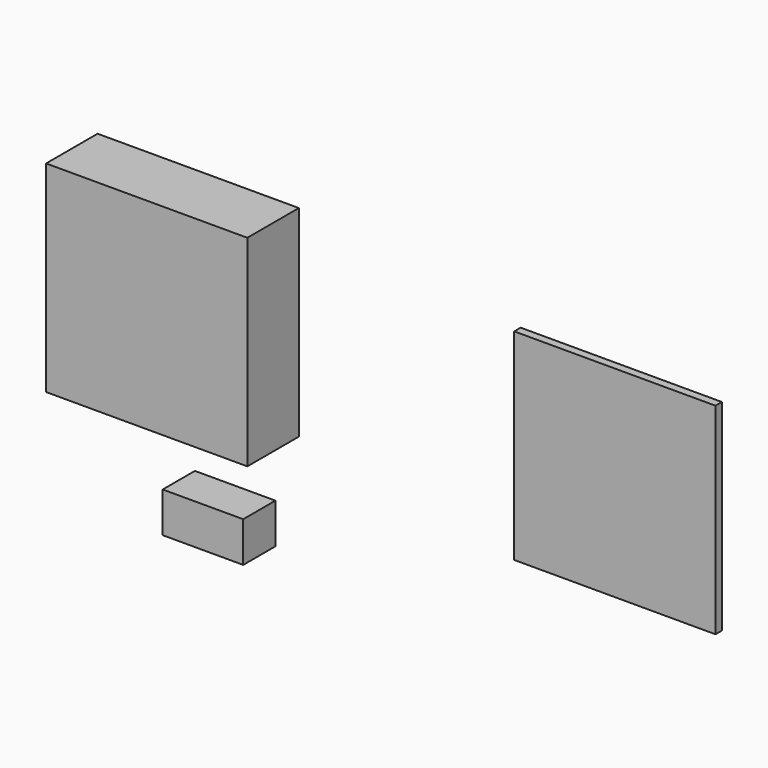
from build123d import *

# Parameters (mm, degrees)
F0_W     = 127
F0_H     = 127
F1_DEPTH = 40.64
F2_W     = 25.4
F2_H     = 25.4
F3_DEPTH = 50.8
F4_W     = 127
F4_H     = 127
F5_DEPTH = 5.08


with BuildPart() as f1:
    # F0 (on Front) → F1 (new body)
    with BuildSketch(Plane.XZ):
        with Locations((-92.340814, 71.640552)):
            Rectangle(F0_W, F0_H)
    extrude(amount=F1_DEPTH)


with BuildPart() as f3:
    # F2 (on Right) → F3 (new body)
    with BuildSketch(Plane.YZ):
        with Locations((-130.749674, 33.784234)):
            Rectangle(F2_W, F2_H)
    extrude(amount=F3_DEPTH)


with BuildPart() as f5:
    # F4 (on Front) → F5 (new body)
    with BuildSketch(Plane.XZ):
        with Locations((174.628353, 50.717524)):
            Rectangle(F4_W, F4_H)
    extrude(amount=F5_DEPTH)


solid = Compound([f1.part, f3.part, f5.part])
